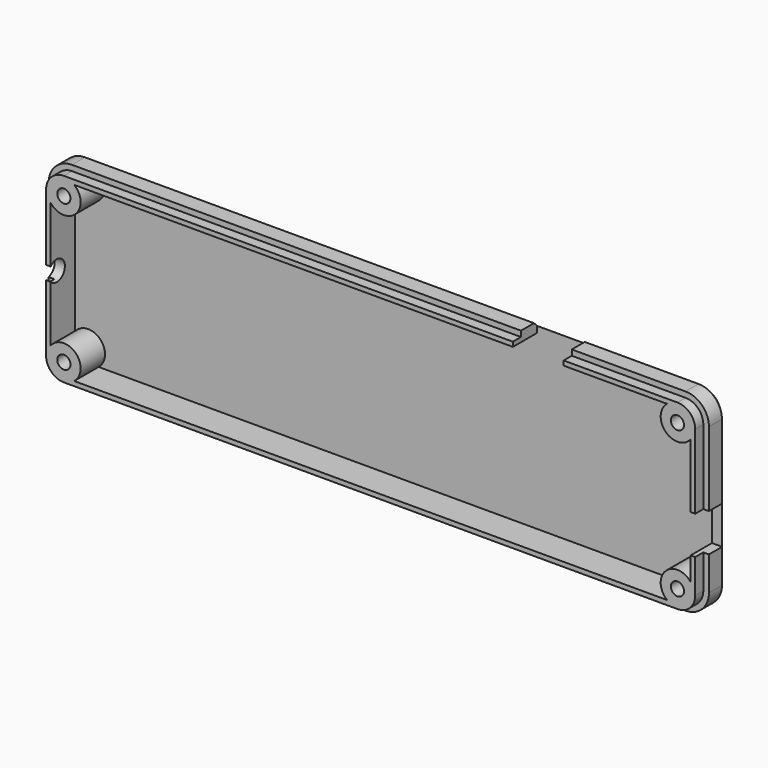
from build123d import *

# Parameters (mm, degrees)
SKETCH037_W       = 7.5
SKETCH037_H       = 7.5
EXTRUDE045_DEPTH  = 10
SKETCH036_W       = 10
SKETCH036_H       = 9
EXTRUDE044_DEPTH  = 10
CYLINDER001_R     = 2
CYLINDER001_DEPTH = 10
SKETCH005_R       = 1.3
EXTRUDE003_DEPTH  = 20
EXTRUDE039_DEPTH  = 4
EXTRUDE042_DEPTH  = 0.8
EXTRUDE002_DEPTH  = 6
EXTRUDE037_DEPTH  = 2


with BuildPart() as extrude045:
    # Sketch037 → Extrude045 (new body)
    with BuildSketch(Plane.YZ.offset(35)):
        with Locations((0, 8)):
            Rectangle(SKETCH037_W, SKETCH037_H)
    extrude(amount=EXTRUDE045_DEPTH)


with BuildPart() as extrude045_1:
    # Extrude045 placement: moved
    add(extrude045.part.moved(Location((-9.5, 0, 0))))


with BuildPart() as extrude044:
    # Sketch036 → Extrude044 (new body)
    with BuildSketch(Plane.XY.offset(40)):
        Rectangle(SKETCH036_W, SKETCH036_H)
    extrude(amount=EXTRUDE044_DEPTH)


with BuildPart() as extrude044_1:
    # Extrude044 placement: moved
    add(extrude044.part.moved(Location((0, 0, -15.5))))


with BuildPart() as common_sub:
    # Cylinder001 → Cylinder001 (new body)
    with BuildSketch(Plane(origin=(-92.5, 0, 12), x_dir=(0, 0, 1), z_dir=(-1, 0, 0))):
        Circle(CYLINDER001_R)
    extrude(amount=CYLINDER001_DEPTH)

    # Fusion033: union Extrude045, Extrude044
    add(extrude045_1.part)
    add(extrude044_1.part)


with BuildPart() as sweep001:
    # Sweep001: sweep along a path in Sketch034
    with BuildLine(Plane.XZ.offset(10)) as sweep001_path:
        Line((32, 11.999174), (32, 26.4))
        ThreePointArc((32, 26.4), (30.652691, 29.652691), (27.4, 31))
        Line((27.4, 31), (-60.9, 31))
    # Sketch035 → Sweep001 (sweep)
    with BuildSketch(Plane.YZ):
        Polygon((5.3, 29.4), (3.7, 31), (3.7, 32), (6, 32), (6, 29.4), align=None)
    sweep(path=sweep001_path.line)


with BuildPart() as fusion030:
    # Sketch005 → Extrude003 (new body)
    with BuildSketch(Plane.XZ.offset(5)):
        with Locations((27.4, 26.4)):
            Circle(SKETCH005_R)
    extrude(amount=-EXTRUDE003_DEPTH)


with BuildPart() as fusion030_1:
    # Extrude003 placement: moved
    add(fusion030.part.moved(Location((0, -4, 0))))

    # Fusion030: union Sweep001
    add(sweep001.part)


with BuildPart() as top003:
    # Sketch028 → Extrude039 (new body)
    with BuildSketch(Plane.XZ.offset(10)):
        with BuildLine():
            ThreePointArc((32, 26.4), (30.652691, 29.652691), (27.4, 31))
            Line((27.4, 31), (-60.9, 31))
            Line((-60.9, 31), (-60.9, 29))
            Line((-60.9, 29), (27.4, 29))
            ThreePointArc((30, 26.4), (29.238478, 28.238478), (27.4, 29))
            Line((30, 12), (30, 26.4))
            Line((32, 12), (30, 12))
            Line((32, 26.4), (32, 12))
        make_face()
    extrude(amount=EXTRUDE039_DEPTH)


with BuildPart() as top003_1:
    # Extrude039 placement: moved
    add(top003.part.moved(Location((0, 14.5, 0))))


with BuildPart() as top002:
    # Sketch031 → Extrude042 (new body)
    with BuildSketch(Plane.XZ.offset(10)):
        with BuildLine():
            ThreePointArc((32, 26.399981), (30.652691, 29.652672), (27.4, 30.999981))
            Line((27.4, 30.999981), (-60.9, 30.999981))
            Line((-60.9, 30.999981), (-60.9, 11.999981))
            Line((-60.9, 11.999981), (32, 11.999981))
            Line((32, 26.399981), (32, 11.999981))
        make_face()
    extrude(amount=EXTRUDE042_DEPTH)


with BuildPart() as top002_1:
    # Extrude042 placement: moved
    add(top002.part.moved(Location((0, 15.3, 0))))


with BuildPart() as screw_hole_top:
    # Sketch004 → Extrude002 (new body)
    with BuildSketch(Plane.XZ.offset(10)):
        with BuildLine():
            ThreePointArc((25.36776, 29), (25.066548, 24.066548), (30, 24.36776))
            Line((30, 24.36776), (30, 26.4))
            ThreePointArc((30, 26.4), (29.238478, 28.238478), (27.4, 29))
            Line((25.36776, 29), (27.4, 29))
        make_face()
    extrude(amount=-EXTRUDE002_DEPTH)


with BuildPart() as screw_hole_top_1:
    # Extrude002 placement: moved
    add(screw_hole_top.part.moved(Location((0, 8.5, 0))))


with BuildPart() as top:
    # Sketch029 → Extrude037 (new body)
    with BuildSketch(Plane.XZ.offset(10)):
        with BuildLine():
            ThreePointArc((30.9, 26.4), (29.874874, 28.874874), (27.4, 29.9))
            Line((27.4, 29.9), (-33, 29.9))
            Line((-33, 29.9), (-33, 29))
            Line((-33, 29), (27.4, 29))
            ThreePointArc((30, 26.4), (29.238478, 28.238478), (27.4, 29))
            Line((30, 12), (30, 26.4))
            Line((30.9, 12), (30, 12))
            Line((30.9, 26.4), (30.9, 12))
        make_face()
    extrude(amount=EXTRUDE037_DEPTH)


with BuildPart() as top_1:
    # Extrude037 placement: moved
    add(top.part.moved(Location((0, 10.5, 0))))

    # Fusion028: union top003, top002, screw hole top
    add(top003_1.part)
    add(top002_1.part)
    add(screw_hole_top_1.part)

    # Cut024: cut Fusion030
    add(fusion030_1.part, mode=Mode.SUBTRACT)


with BuildPart() as part_mirroring:
    # Part__Mirroring: instance of top
    add(top_1.part.mirror(Plane(origin=(0, 0, 12), x_dir=(0, 1, 0), z_dir=(0, 0, 1))))


with BuildPart() as part_mirroring002:
    # Part__Mirroring002: instance of Part__Mirroring
    add(part_mirroring.part.mirror(Plane(origin=(-33, 1, 0), x_dir=(0, -1, 0), z_dir=(1, 0, 0))))


with BuildPart() as top007:
    # Part__Mirroring003: instance of top
    add(top_1.part.mirror(Plane(origin=(-33, 0, 0), x_dir=(0, -1, 0), z_dir=(1, 0, 0))))

    # Fusion032: union top, Part__Mirroring, Part__Mirroring002
    add(top_1.part)
    add(part_mirroring.part)
    add(part_mirroring002.part)

    # Cut025: cut common sub
    add(common_sub.part, mode=Mode.SUBTRACT)


solid = top007.part
